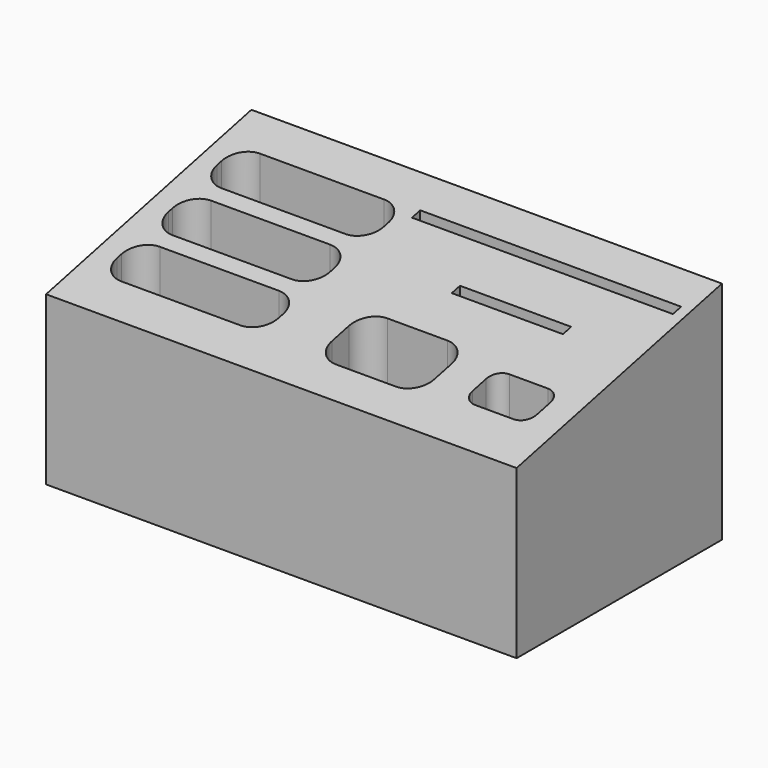
from build123d import *

# Parameters (mm, degrees)
F0_W     = 139.7
F0_H     = 76.2
F0_W_2   = 33.02
F0_H_2   = 3.048
F0_W_3   = 77.47
F1_DEPTH = 76.2
F3_DEPTH = 3.81
F4_DEPTH = 139.701


with BuildPart() as f1:
    # F0 (on Top) → F1 (new body)
    with BuildSketch(Plane.XY):
        Rectangle(F0_W, F0_H)
        with BuildLine():
            ThreePointArc((-63.394407, -18.25625), (-61.534535, -13.766122), (-57.044407, -11.90625))
            Line((-57.044407, -11.90625), (-21.695593, -11.90625))
            ThreePointArc((-21.695593, -11.90625), (-17.205465, -13.766122), (-15.345593, -18.25625))
            Line((-15.345593, -18.25625), (-15.345593, -19.84375))
            ThreePointArc((-15.345593, -19.84375), (-17.205465, -24.333878), (-21.695593, -26.19375))
            Line((-21.695593, -26.19375), (-57.044407, -26.19375))
            ThreePointArc((-57.044407, -26.19375), (-61.534535, -24.333878), (-63.394407, -19.84375))
            Line((-63.394407, -19.84375), (-63.394407, -18.25625))
        make_face(mode=Mode.SUBTRACT)
        with BuildLine():
            ThreePointArc((1.27, -14.605), (3.129872, -10.114872), (7.62, -8.255))
            Line((7.62, -8.255), (25.4, -8.255))
            ThreePointArc((25.4, -8.255), (29.890128, -10.114872), (31.75, -14.605))
            Line((31.75, -14.605), (31.75, -20.955))
            ThreePointArc((31.75, -20.955), (29.890128, -25.445128), (25.4, -27.305))
            Line((25.4, -27.305), (7.62, -27.305))
            ThreePointArc((7.62, -27.305), (3.129872, -25.445128), (1.27, -20.955))
            Line((1.27, -20.955), (1.27, -14.605))
        make_face(mode=Mode.SUBTRACT)
        with BuildLine():
            ThreePointArc((42.545, -15.24), (43.660923, -12.545923), (46.355, -11.43))
            Line((46.355, -11.43), (57.785, -11.43))
            ThreePointArc((57.785, -11.43), (60.479077, -12.545923), (61.595, -15.24))
            Line((61.595, -15.24), (61.595, -20.32))
            ThreePointArc((61.595, -20.32), (60.479077, -23.014077), (57.785, -24.13))
            Line((57.785, -24.13), (46.355, -24.13))
            ThreePointArc((46.355, -24.13), (43.660923, -23.014077), (42.545, -20.32))
            Line((42.545, -20.32), (42.545, -15.24))
        make_face(mode=Mode.SUBTRACT)
        with BuildLine():
            ThreePointArc((-63.394407, 0.79375), (-61.534535, 5.283878), (-57.044407, 7.14375))
            Line((-57.044407, 7.14375), (-21.695593, 7.14375))
            ThreePointArc((-21.695593, 7.14375), (-17.205465, 5.283878), (-15.345593, 0.79375))
            Line((-15.345593, 0.79375), (-15.345593, -0.79375))
            ThreePointArc((-15.345593, -0.79375), (-17.205465, -5.283878), (-21.695593, -7.14375))
            Line((-21.695593, -7.14375), (-57.044407, -7.14375))
            ThreePointArc((-57.044407, -7.14375), (-61.534535, -5.283878), (-63.394407, -0.79375))
            Line((-63.394407, -0.79375), (-63.394407, 0.79375))
        make_face(mode=Mode.SUBTRACT)
        with BuildLine():
            ThreePointArc((-64.134793, 19.84375), (-62.274921, 24.333878), (-57.784793, 26.19375))
            Line((-57.784793, 26.19375), (-20.955207, 26.19375))
            ThreePointArc((-20.955207, 26.19375), (-16.465079, 24.333878), (-14.605207, 19.84375))
            Line((-14.605207, 19.84375), (-14.605207, 18.25625))
            ThreePointArc((-14.605207, 18.25625), (-16.465079, 13.766122), (-20.955207, 11.90625))
            Line((-20.955207, 11.90625), (-57.784793, 11.90625))
            ThreePointArc((-57.784793, 11.90625), (-62.274921, 13.766122), (-64.134793, 18.25625))
            Line((-64.134793, 18.25625), (-64.134793, 19.84375))
        make_face(mode=Mode.SUBTRACT)
        with Locations((31.75, 7.62)):
            Rectangle(F0_W_2, F0_H_2, mode=Mode.SUBTRACT)
        with Locations((27.94, 25.4)):
            Rectangle(F0_W_3, F0_H_2, mode=Mode.SUBTRACT)
    extrude(amount=F1_DEPTH)

    # F0 (on Top) → F3 (join)
    with BuildSketch(Plane.XY):
        with BuildLine():
            Line((-20.955207, 26.19375), (-57.784793, 26.19375))
            ThreePointArc((-57.784793, 26.19375), (-62.274921, 24.333878), (-64.134793, 19.84375))
            Line((-64.134793, 19.84375), (-64.134793, 18.25625))
            ThreePointArc((-64.134793, 18.25625), (-62.274921, 13.766122), (-57.784793, 11.90625))
            Line((-57.784793, 11.90625), (-20.955207, 11.90625))
            ThreePointArc((-20.955207, 11.90625), (-16.465079, 13.766122), (-14.605207, 18.25625))
            Line((-14.605207, 18.25625), (-14.605207, 19.84375))
            ThreePointArc((-14.605207, 19.84375), (-16.465079, 24.333878), (-20.955207, 26.19375))
        make_face()
        with BuildLine():
            Line((-21.695593, 7.14375), (-57.044407, 7.14375))
            ThreePointArc((-57.044407, 7.14375), (-61.534535, 5.283878), (-63.394407, 0.79375))
            Line((-63.394407, 0.79375), (-63.394407, -0.79375))
            ThreePointArc((-63.394407, -0.79375), (-61.534535, -5.283878), (-57.044407, -7.14375))
            Line((-57.044407, -7.14375), (-21.695593, -7.14375))
            ThreePointArc((-21.695593, -7.14375), (-17.205465, -5.283878), (-15.345593, -0.79375))
            Line((-15.345593, -0.79375), (-15.345593, 0.79375))
            ThreePointArc((-15.345593, 0.79375), (-17.205465, 5.283878), (-21.695593, 7.14375))
        make_face()
        with BuildLine():
            Line((-21.695593, -11.90625), (-57.044407, -11.90625))
            ThreePointArc((-57.044407, -11.90625), (-61.534535, -13.766122), (-63.394407, -18.25625))
            Line((-63.394407, -18.25625), (-63.394407, -19.84375))
            ThreePointArc((-63.394407, -19.84375), (-61.534535, -24.333878), (-57.044407, -26.19375))
            Line((-57.044407, -26.19375), (-21.695593, -26.19375))
            ThreePointArc((-21.695593, -26.19375), (-17.205465, -24.333878), (-15.345593, -19.84375))
            Line((-15.345593, -19.84375), (-15.345593, -18.25625))
            ThreePointArc((-15.345593, -18.25625), (-17.205465, -13.766122), (-21.695593, -11.90625))
        make_face()
        with BuildLine():
            Line((25.4, -8.255), (7.62, -8.255))
            ThreePointArc((7.62, -8.255), (3.129872, -10.114872), (1.27, -14.605))
            Line((1.27, -14.605), (1.27, -20.955))
            ThreePointArc((1.27, -20.955), (3.129872, -25.445128), (7.62, -27.305))
            Line((7.62, -27.305), (25.4, -27.305))
            ThreePointArc((25.4, -27.305), (29.890128, -25.445128), (31.75, -20.955))
            Line((31.75, -20.955), (31.75, -14.605))
            ThreePointArc((31.75, -14.605), (29.890128, -10.114872), (25.4, -8.255))
        make_face()
        with BuildLine():
            Line((57.785, -11.43), (46.355, -11.43))
            ThreePointArc((46.355, -11.43), (43.660923, -12.545923), (42.545, -15.24))
            Line((42.545, -15.24), (42.545, -20.32))
            ThreePointArc((42.545, -20.32), (43.660923, -23.014077), (46.355, -24.13))
            Line((46.355, -24.13), (57.785, -24.13))
            ThreePointArc((57.785, -24.13), (60.479077, -23.014077), (61.595, -20.32))
            Line((61.595, -20.32), (61.595, -15.24))
            ThreePointArc((61.595, -15.24), (60.479077, -12.545923), (57.785, -11.43))
        make_face()
        with Locations((31.75, 7.62)):
            Rectangle(F0_W_2, F0_H_2)
        with Locations((27.94, 25.4)):
            Rectangle(F0_W_3, F0_H_2)
    extrude(amount=F3_DEPTH)

    # F2 (on face) → F4 (cut, through all)
    with BuildSketch(Plane(origin=(-69.85, 0, 0), x_dir=(0, -1, 0), z_dir=(-1, 0, 0))):
        Polygon((-38.1, 76.2), (-38.1, 66.954948), (38.1, 49.710575), (38.1, 76.2), align=None)
    extrude(amount=-F4_DEPTH, mode=Mode.SUBTRACT)


solid = f1.part
